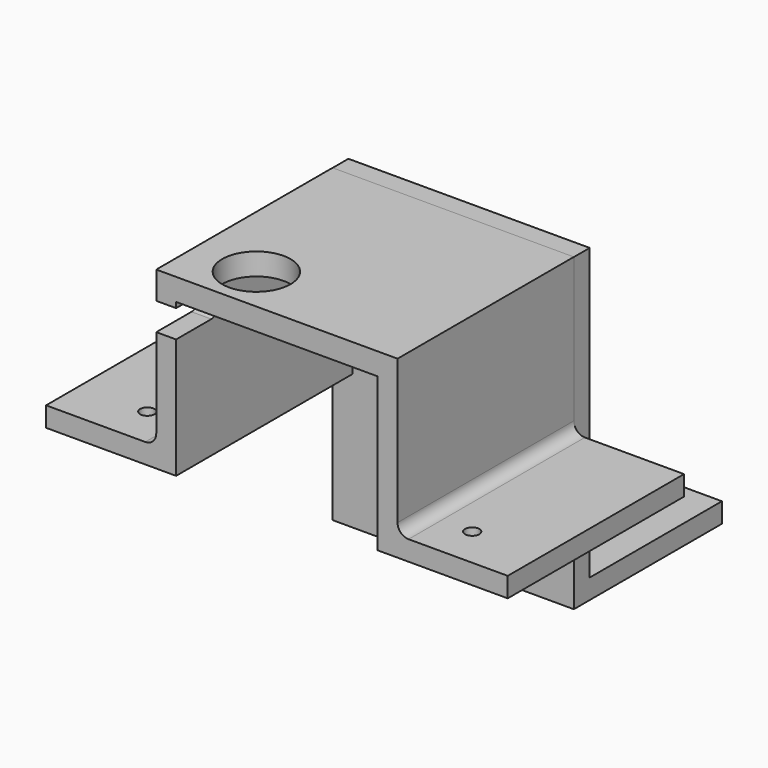
from build123d import *

# Parameters (mm, degrees)
F0_W     = 12.7
F0_H     = 2.286
F1_DEPTH = 12.7
F2_W     = 19.05
F2_H     = 2.286
F3_DEPTH = 13.9065
F5_R     = 3.937
F5_R_2   = 0.8255
F6_DEPTH = 63.5
F4_R     = 0.8255
F7_DEPTH = 63.5
F8_W     = 6.35
F8_H     = 3.175
F9_DEPTH = 25.4
F10_R    = 1.27


with BuildPart() as f1:
    # F0 (on Front) → F1 (new body, symmetric)
    with BuildSketch(Plane.XZ):
        Polygon((13.9065, -7.8105), (13.9065, 10.0965), (-13.9065, 10.0965), (-13.9065, -7.8105), (-13.9065, -10.0965), (-11.6205, -10.0965), (-11.6205, 7.5565), (11.6205, 7.5565), (11.6205, -10.0965), (13.9065, -10.0965), align=None)
        with Locations((-20.2565, -8.9535)):
            Rectangle(F0_W, F0_H)
        with Locations((20.2565, -8.9535)):
            Rectangle(F0_W, F0_H)
    extrude(amount=F1_DEPTH, both=True)


with BuildPart() as f3:
    # F2 (on Right) → F3 (new body, symmetric)
    with BuildSketch(Plane.YZ):
        Polygon((14.985964, 10.083703), (12.699964, 10.083703), (12.699964, -25.654097), (14.985964, -25.654097), (14.985964, -23.368097), align=None)
        with Locations((24.510964, -24.511097)):
            Rectangle(F2_W, F2_H)
    extrude(amount=F3_DEPTH, both=True)


with BuildPart() as f6_tool:
    # F5 (on face) → F6 (new body, symmetric)
    with BuildSketch(Plane.XY.offset(10.0965)):
        with Locations((-6.617363, -7.390599)):
            Circle(F5_R)
        with Locations((0, 24.914509)):
            Circle(F5_R_2)
    extrude(amount=F6_DEPTH, both=True)


with BuildPart() as f1_1:
    add(f1.part)

    # F6: cut by f6_tool
    add(f6_tool.part, mode=Mode.SUBTRACT)

    # F4 (on face) → F7 (cut, symmetric)
    with BuildSketch(Plane(origin=(0, 0, -10.0965), x_dir=(1, 0, 0), z_dir=(0, 0, -1))):
        with Locations((-18.721931, 7.964557)):
            Circle(F4_R)
        with Locations((18.721931, 7.964557)):
            Circle(F4_R)
    extrude(amount=F7_DEPTH, both=True, mode=Mode.SUBTRACT)

    # F8 (on face) → F9 (cut)
    with BuildSketch(Plane(origin=(-13.9065, 0, 0), x_dir=(0, -1, 0), z_dir=(-1, 0, 0))):
        with Locations((9.525, 5.334)):
            Rectangle(F8_W, F8_H)
    extrude(amount=-F9_DEPTH, mode=Mode.SUBTRACT)

    # F10
    f10_edges = [f1_1.edges().sort_by_distance(p)[0] for p in [
        (-12.7635, -6.35, 3.7465),
        (-12.7635, -6.35, 6.9215),
        (-13.9065, 0, -7.8105),
        (13.9065, 0, -7.8105),
    ]]
    fillet(f10_edges, radius=F10_R)


with BuildPart() as f3_1:
    add(f3.part)

    # F6: cut by f6_tool
    add(f6_tool.part, mode=Mode.SUBTRACT)


solid = Compound([f1_1.part, f3_1.part])
